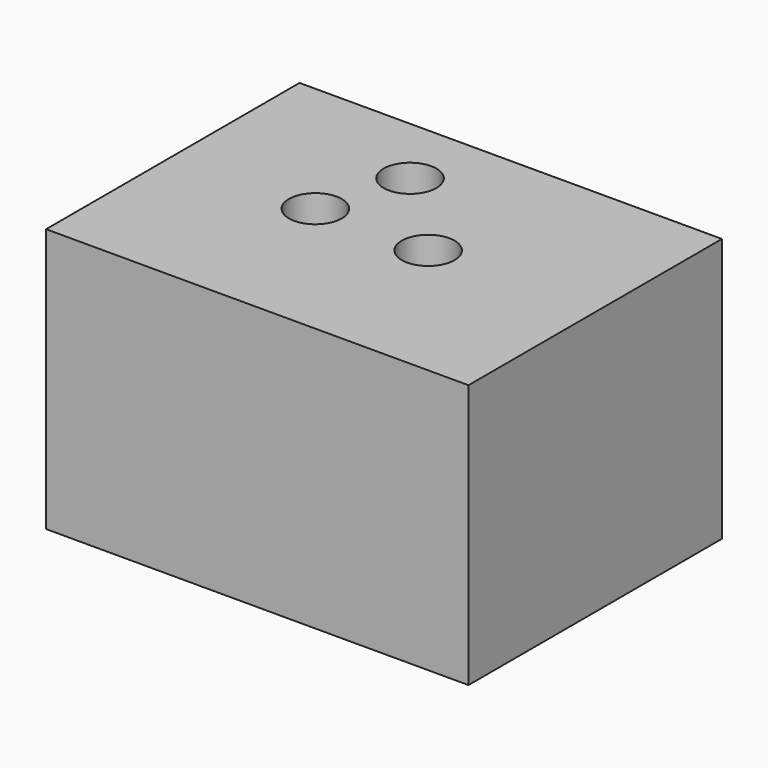
from build123d import *

# Parameters (mm, degrees)
F0_W     = 80
F0_H     = 60
F1_DEPTH = 50
F2_R     = 5
F3_DEPTH = 25


with BuildPart() as f1:
    # F0 (on Top) → F1 (new body)
    with BuildSketch(Plane.XY):
        Rectangle(F0_W, F0_H)
    extrude(amount=F1_DEPTH)

    # F2 (on face) → F3 (cut)
    with BuildSketch(Plane.XY.offset(50)):
        with Locations((-13.001168, 0)):
            Circle(F2_R)
        with Locations((8.372284, 0)):
            Circle(F2_R)
        with Locations((-8.150452, 16.35344)):
            Circle(F2_R)
    extrude(amount=-F3_DEPTH, mode=Mode.SUBTRACT)


solid = f1.part
